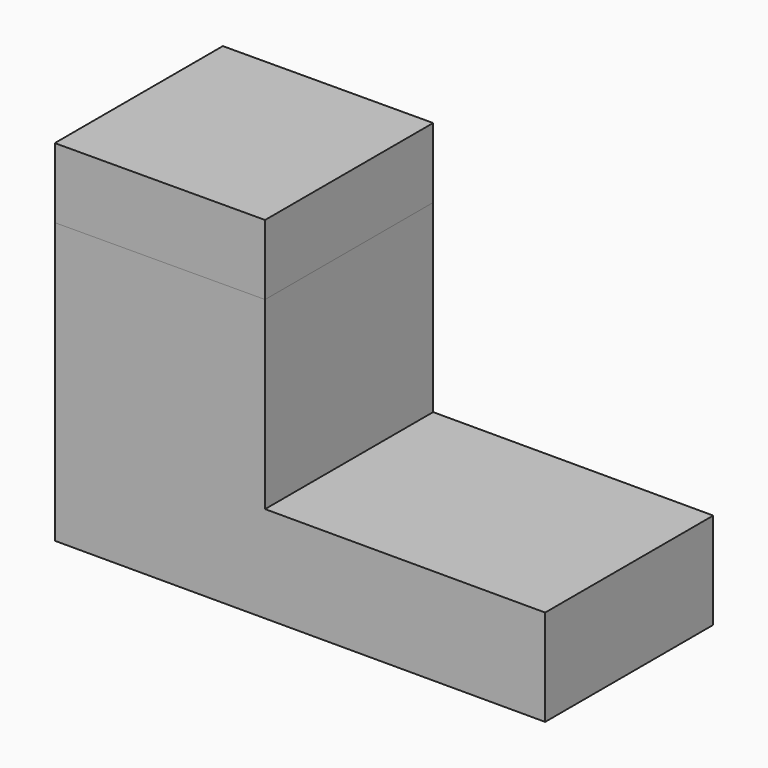
from build123d import *

# Parameters (mm, degrees)
F1_DEPTH = 76.2
F3_DEPTH = 76.2


with BuildPart() as f1:
    # F0 (on Front) → F1 (new body)
    with BuildSketch(Plane.XZ):
        Polygon((0, 101.6), (0, 0), (177.8, 0), (177.8, 34.925), (76.2, 34.925), (76.2, 101.844475), align=None)
    extrude(amount=F1_DEPTH)


with BuildPart() as f3:
    # F2 (on face) → F3 (new body)
    with BuildSketch(Plane.XZ.offset(76.2)):
        Polygon((-0.081491, 126.999869), (0, 101.6), (76.2, 101.844475), (76.2, 127.244605), align=None)
    extrude(amount=-F3_DEPTH)


solid = Compound([f1.part, f3.part])
